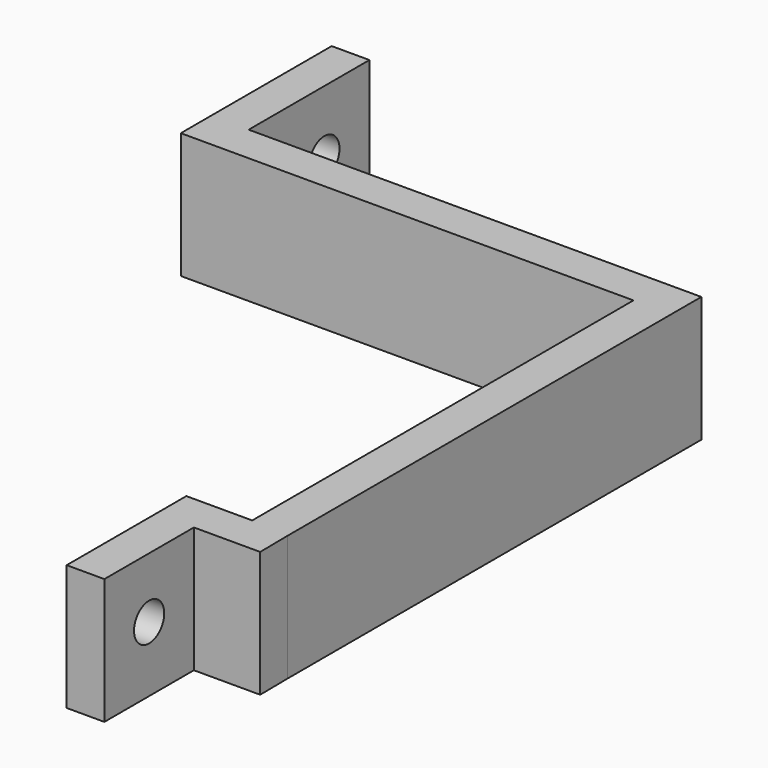
from build123d import *

# Parameters (mm, degrees)
F1_DEPTH = 12.7
F2_R     = 1.905
F3_DEPTH = 3.81
F4_R     = 1.905
F5_DEPTH = 3.81


with BuildPart() as f1:
    # F0 (on Top) → F1 (new body)
    with BuildSketch(Plane.XY):
        Polygon((18.936607, 16.403033), (-26.783393, 16.403033), (-26.783393, 31.643033), (-30.593393, 31.643033), (-30.593393, 16.403033), (-30.593393, 12.593033), (15.126607, 12.593033), (15.126607, -35.539288), (8.47132, -35.539288), (8.47132, -39.349288), (8.47132, -50.648663), (12.28132, -50.648663), (12.28132, -39.349288), (18.979067, -39.349288), (18.936607, -35.848397), (18.936607, 12.593033), align=None)
    extrude(amount=F1_DEPTH)

    # F2 (on face) → F3 (cut, through all)
    with BuildSketch(Plane.YZ.offset(12.28132)):
        with Locations((-44.998975, 6.59027)):
            Circle(F2_R)
    extrude(amount=-F3_DEPTH, mode=Mode.SUBTRACT)

    # F4 (on face) → F5 (cut, through all)
    with BuildSketch(Plane(origin=(-30.593393, 0, 0), x_dir=(0, -1, 0), z_dir=(-1, 0, 0))):
        with Locations((-25.961572, 6.35)):
            Circle(F4_R)
    extrude(amount=-F5_DEPTH, mode=Mode.SUBTRACT)


solid = f1.part
